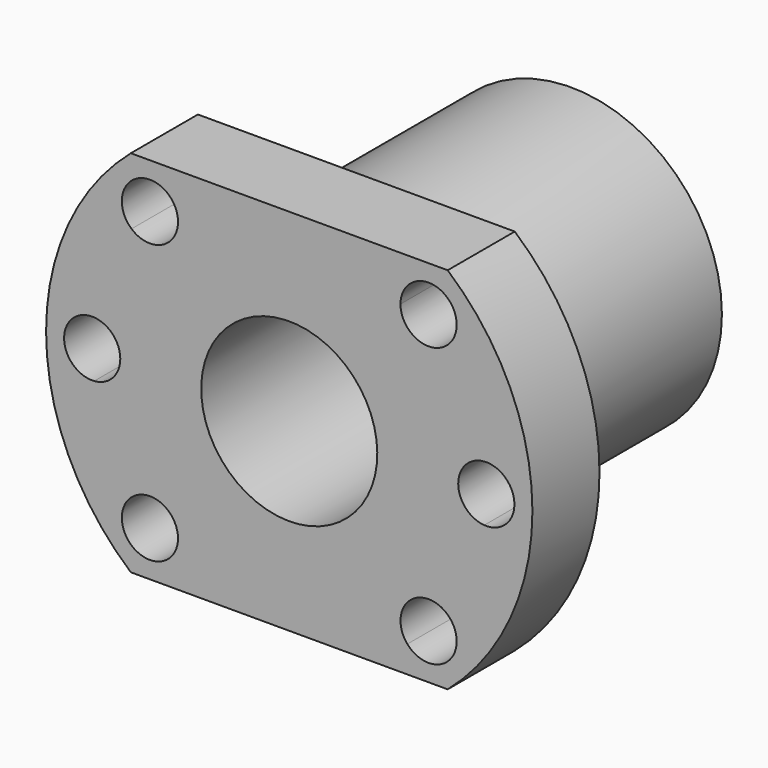
from build123d import *

# Parameters (mm, degrees)
F0_R     = 18
F1_DEPTH = 32
F2_R     = 29
F3_DEPTH = 10
F5_DEPTH = 42


with BuildPart() as f1:
    # F0 (on Front) → F1 (new body)
    with BuildSketch(Plane.XZ):
        Circle(F0_R)
    extrude(amount=F1_DEPTH)

    # F2 (on face) → F3 (join)
    with BuildSketch(Plane.XZ.offset(32)):
        Circle(F2_R)
    extrude(amount=F3_DEPTH)

    # F4 (on face) → F5 (cut)
    with BuildSketch(Plane.XZ.offset(42)):
        with BuildLine():
            Line((0, 0), (-7.4246212025, 7.4246212025))
            ThreePointArc((-7.4246212025, 7.4246212025), (-9.7007350914, 4.0181760398), (-10.5, 0))
            Line((-10.5, 0), (0, 0))
        make_face()
        with BuildLine():
            ThreePointArc((-10.5, 0), (0, -10.5), (10.5, 0))
            ThreePointArc((10.5, 0), (4.0181760398, 9.7007350914), (-7.4246212025, 7.4246212025))
            Line((-7.4246212025, 7.4246212025), (0, 0))
            Line((0, 0), (-10.5, 0))
        make_face()
        with BuildLine():
            Line((-16.6170093579, 16.6170093579), (-14.2482016409, 14.2482016409))
            ThreePointArc((-14.2482016409, 14.2482016409), (-13.522012924, 15.3350198595), (-13.2670093579, 16.6170093579))
            Line((-13.2670093579, 16.6170093579), (-16.6170093579, 16.6170093579))
        make_face()
        with BuildLine():
            ThreePointArc((-18.8109516732, 14.0853859425), (-16.4975450742, 13.2691401423), (-14.2482016409, 14.2482016409))
            Line((-14.2482016409, 14.2482016409), (-16.6170093579, 16.6170093579))
            ThreePointArc((-16.6170093579, 16.6170093579), (-17.7591493316, 15.3903416147), (-18.8109516732, 14.0853859425))
        make_face()
        with BuildLine():
            ThreePointArc((-18.9858170749, 18.9858170749), (-19.9648785735, 16.4975450742), (-18.8109516732, 14.0853859425))
            ThreePointArc((-18.8109516732, 14.0853859425), (-17.7591493316, 15.3903416147), (-16.6170093579, 16.6170093579))
            Line((-16.6170093579, 16.6170093579), (-18.9858170749, 18.9858170749))
        make_face()
        with BuildLine():
            Line((-18.9858170749, 18.9858170749), (-16.6170093579, 16.6170093579))
            ThreePointArc((-16.6170093579, 16.6170093579), (-15.3903416147, 17.7591493316), (-14.0853859425, 18.8109516732))
            ThreePointArc((-14.0853859425, 18.8109516732), (-16.4975450742, 19.9648785735), (-18.9858170749, 18.9858170749))
        make_face()
        with BuildLine():
            ThreePointArc((-23.5, 0), (-23.440229841, 1.675), (-23.2612234043, 3.3414795731))
            ThreePointArc((-23.2612234043, 3.3414795731), (-26.85, 0), (-23.2612234043, -3.3414795731))
            ThreePointArc((-23.2612234043, -3.3414795731), (-23.440229841, -1.675), (-23.5, 0))
        make_face()
        with BuildLine():
            Line((-23.5, 0), (-20.15, 0))
            ThreePointArc((-20.15, 0), (-21.04822497, 2.2828270198), (-23.2612234043, 3.3414795731))
            ThreePointArc((-23.2612234043, 3.3414795731), (-23.440229841, 1.675), (-23.5, 0))
        make_face()
        with BuildLine():
            ThreePointArc((-23.2612234043, -3.3414795731), (-21.04822497, -2.2828270198), (-20.15, 0))
            Line((-20.15, 0), (-23.5, 0))
            ThreePointArc((-23.5, 0), (-23.440229841, -1.675), (-23.2612234043, -3.3414795731))
        make_face()
        with BuildLine():
            ThreePointArc((-14.0853859425, -18.8109516732), (-16.6170093579, -16.6170093579), (-18.8109516732, -14.0853859425))
            ThreePointArc((-18.8109516732, -14.0853859425), (-18.9858170749, -18.9858170749), (-14.0853859425, -18.8109516732))
        make_face()
        with BuildLine():
            ThreePointArc((-13.2670093579, -16.6170093579), (-15.2254646687, -13.5696985142), (-18.8109516732, -14.0853859425))
            ThreePointArc((-18.8109516732, -14.0853859425), (-16.6170093579, -16.6170093579), (-14.0853859425, -18.8109516732))
            ThreePointArc((-14.0853859425, -18.8109516732), (-13.4782645099, -17.7878128338), (-13.2670093579, -16.6170093579))
        make_face()
        with BuildLine():
            ThreePointArc((14.0853859425, -18.8109516732), (16.6170093579, -16.6170093579), (18.8109516732, -14.0853859425))
            ThreePointArc((18.8109516732, -14.0853859425), (14.2482016409, -14.2482016409), (14.0853859425, -18.8109516732))
        make_face()
        with BuildLine():
            ThreePointArc((19.9670093579, -16.6170093579), (19.6643202016, -15.2254646687), (18.8109516732, -14.0853859425))
            ThreePointArc((18.8109516732, -14.0853859425), (16.6170093579, -16.6170093579), (14.0853859425, -18.8109516732))
            ThreePointArc((14.0853859425, -18.8109516732), (17.7878128338, -19.7557542059), (19.9670093579, -16.6170093579))
        make_face()
        with BuildLine():
            ThreePointArc((23.5, 0), (23.440229841, 1.675), (23.2612234043, 3.3414795731))
            ThreePointArc((23.2612234043, 3.3414795731), (20.15, 0), (23.2612234043, -3.3414795731))
            ThreePointArc((23.2612234043, -3.3414795731), (23.440229841, -1.675), (23.5, 0))
        make_face()
        with BuildLine():
            ThreePointArc((26.85, 0), (25.7828270198, 2.45177503), (23.2612234043, 3.3414795731))
            ThreePointArc((23.2612234043, 3.3414795731), (23.440229841, 1.675), (23.5, 0))
            ThreePointArc((23.5, 0), (23.440229841, -1.675), (23.2612234043, -3.3414795731))
            ThreePointArc((23.2612234043, -3.3414795731), (25.7828270198, -2.45177503), (26.85, 0))
        make_face()
        with BuildLine():
            ThreePointArc((19.9670093579, 16.6170093579), (17.7878128338, 19.7557542059), (14.0853859425, 18.8109516732))
            ThreePointArc((14.0853859425, 18.8109516732), (15.3903416147, 17.7591493316), (16.6170093579, 16.6170093579))
            Line((16.6170093579, 16.6170093579), (19.9670093579, 16.6170093579))
        make_face()
        with BuildLine():
            ThreePointArc((16.6170093579, 16.6170093579), (17.7591493316, 15.3903416147), (18.8109516732, 14.0853859425))
            ThreePointArc((18.8109516732, 14.0853859425), (19.6643202016, 15.2254646687), (19.9670093579, 16.6170093579))
            Line((19.9670093579, 16.6170093579), (16.6170093579, 16.6170093579))
        make_face()
        with BuildLine():
            Line((16.6170093579, 16.6170093579), (13.2670093579, 16.6170093579))
            ThreePointArc((13.2670093579, 16.6170093579), (15.2254646687, 13.5696985142), (18.8109516732, 14.0853859425))
            ThreePointArc((18.8109516732, 14.0853859425), (17.7591493316, 15.3903416147), (16.6170093579, 16.6170093579))
        make_face()
        with BuildLine():
            ThreePointArc((14.0853859425, 18.8109516732), (13.4782645099, 17.7878128338), (13.2670093579, 16.6170093579))
            Line((13.2670093579, 16.6170093579), (16.6170093579, 16.6170093579))
            ThreePointArc((16.6170093579, 16.6170093579), (15.3903416147, 17.7591493316), (14.0853859425, 18.8109516732))
        make_face()
        with BuildLine():
            Line((-18.8944436277, 22), (-8.2613558209, 22))
            ThreePointArc((-8.2613558209, 22), (0, 23.5), (8.2613558209, 22))
            Line((8.2613558209, 22), (18.8944436277, 22))
            ThreePointArc((18.8944436277, 22), (0, 29), (-18.8944436277, 22))
        make_face()
        with BuildLine():
            ThreePointArc((8.2613558209, 22), (0, 23.5), (-8.2613558209, 22))
            Line((-8.2613558209, 22), (8.2613558209, 22))
        make_face()
        with BuildLine():
            Line((-8.2613558209, -22), (-18.8944436277, -22))
            ThreePointArc((-18.8944436277, -22), (0, -29), (18.8944436277, -22))
            Line((18.8944436277, -22), (8.2613558209, -22))
            ThreePointArc((8.2613558209, -22), (0, -23.5), (-8.2613558209, -22))
        make_face()
        with BuildLine():
            Line((8.2613558209, -22), (-8.2613558209, -22))
            ThreePointArc((-8.2613558209, -22), (0, -23.5), (8.2613558209, -22))
        make_face()
        with BuildLine():
            Line((-16.6170093579, 16.6170093579), (-13.2670093579, 16.6170093579))
            ThreePointArc((-13.2670093579, 16.6170093579), (-13.4782645099, 17.7878128338), (-14.0853859425, 18.8109516732))
            ThreePointArc((-14.0853859425, 18.8109516732), (-15.3903416147, 17.7591493316), (-16.6170093579, 16.6170093579))
        make_face()
    extrude(amount=-F5_DEPTH, mode=Mode.SUBTRACT)


solid = f1.part
